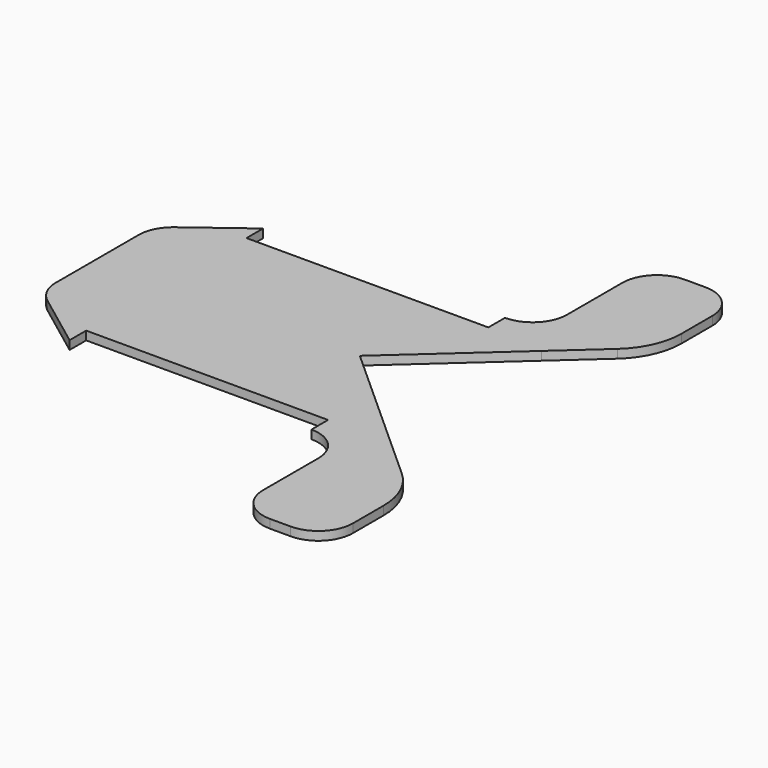
from build123d import *

# Parameters (mm, degrees)
F1_DEPTH = 3.175
F2_R     = 12.7
F3_R     = 25.4


with BuildPart() as f1:
    # F0 (on Top) → F1 (new body)
    with BuildSketch(Plane.XY):
        with BuildLine():
            Line((9.035718, 92.67555), (21.014816, 79.365334))
            Line((21.014816, 79.365334), (45.719025, 101.598944))
            Line((45.719025, 101.598944), (45.719025, 139.698944))
            Line((45.719025, 139.698944), (12.699025, 139.698944))
            Line((12.699025, 139.698944), (12.699025, 101.757354))
            ThreePointArc((12.699025, 101.757354), (11.777927, 96.849164), (9.035718, 92.67555))
        make_face()
        with BuildLine():
            ThreePointArc((0, 0), (4.86008, -0.96673), (8.980256, -3.719744))
            Line((8.980256, -3.719744), (20.956198, 9.587422))
            Line((20.956198, 9.587422), (-17.780975, 44.449402))
            Line((-17.780975, 44.449402), (21.014816, 79.365334))
            Line((21.014816, 79.365334), (9.035718, 92.67555))
            ThreePointArc((9.035718, 92.67555), (4.896401, 89.881841), (0, 88.9))
            Line((0, 88.9), (0, 81.28))
            Line((0, 81.28), (-78.74, 81.28))
            Line((-78.74, 81.28), (-78.74, 68.58))
            Line((-78.74, 68.58), (-78.74, 7.62))
            Line((-78.74, 7.62), (0, 7.62))
            Line((0, 7.62), (0, 0))
        make_face()
        with BuildLine():
            ThreePointArc((8.980256, -3.719744), (11.73327, -7.83992), (12.7, -12.7))
            Line((12.7, -12.7), (12.7, -50.8))
            Line((12.7, -50.8), (45.72, -50.8))
            Line((45.72, -50.8), (45.72, -12.699057))
            Line((45.72, -12.699057), (20.956198, 9.587422))
            Line((20.956198, 9.587422), (8.980256, -3.719744))
        make_face()
        Polygon((-88.9, 7.62), (-78.74, 7.62), (-78.74, 68.58), (-78.74, 81.28), (-88.9, 81.28), (-88.9, 88.9), (-114.3, 69.85), (-114.3, 19.05), (-88.9, 0), align=None)
        Polygon((-88.9, 7.62), (-78.74, 7.62), (-78.74, 68.58), (-78.74, 81.28), (-88.9, 81.28), (-88.9, 88.9), (-114.3, 69.85), (-114.3, 19.05), (-88.9, 0), align=None)
    extrude(amount=F1_DEPTH)

    # F2
    f2_edges = [f1.edges().sort_by_distance(p)[0] for p in [
        (-114.3, 69.85, 1.5875),
        (-114.3, 19.05, 1.5875),
        (12.7, -50.8, 1.5875),
        (45.72, -50.8, 1.5875),
        (45.719025, 139.698944, 1.5875),
        (12.699025, 139.698944, 1.5875),
    ]]
    fillet(f2_edges, radius=F2_R)

    # F3
    f3_edges = [f1.edges().sort_by_distance(p)[0] for p in [
        (45.719025, 101.598944, 1.5875),
        (45.72, -12.699057, 1.5875),
    ]]
    fillet(f3_edges, radius=F3_R)


solid = f1.part
